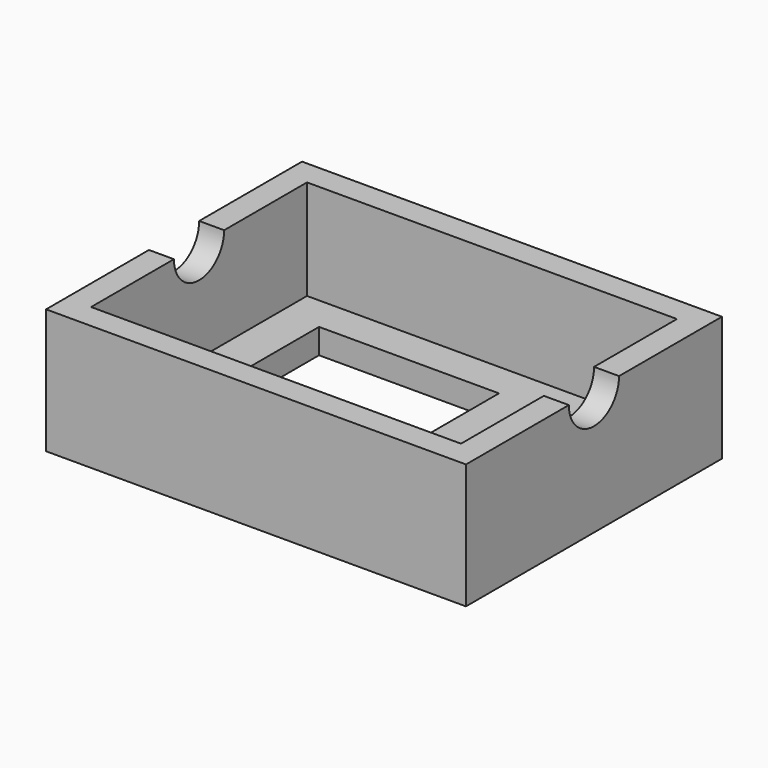
from build123d import *

# Parameters (mm, degrees)
F0_W     = 83.9999988675
F0_H     = 63.9999988675
F0_W_2   = 36
F0_H_2   = 40
F1_DEPTH = 25
F2_W     = 73.9999988675
F2_H     = 53.9999988675
F3_DEPTH = 20
F4_R     = 6.2782984732
F5_DEPTH = 100


with BuildPart() as f1:
    # F0 (on Top) → F1 (new body)
    with BuildSketch(Plane.XY):
        with Locations((-12.5897452821, 0)):
            Rectangle(F0_W, F0_H)
        with Locations((-23.5897447158, 0)):
            Rectangle(F0_W_2, F0_H_2, mode=Mode.SUBTRACT)
    extrude(amount=F1_DEPTH)

    # F2 (on face) → F3 (cut)
    with BuildSketch(Plane.XY.offset(25)):
        with Locations((-12.5897452821, 0)):
            Rectangle(F2_W, F2_H)
    extrude(amount=-F3_DEPTH, mode=Mode.SUBTRACT)

    # F4 (on face) → F5 (cut)
    with BuildSketch(Plane(origin=(-54.5897447158, 0, 0), x_dir=(0, -1, 0), z_dir=(-1, 0, 0))):
        with Locations((0, 25)):
            Circle(F4_R)
    extrude(amount=-F5_DEPTH, mode=Mode.SUBTRACT)


solid = f1.part
